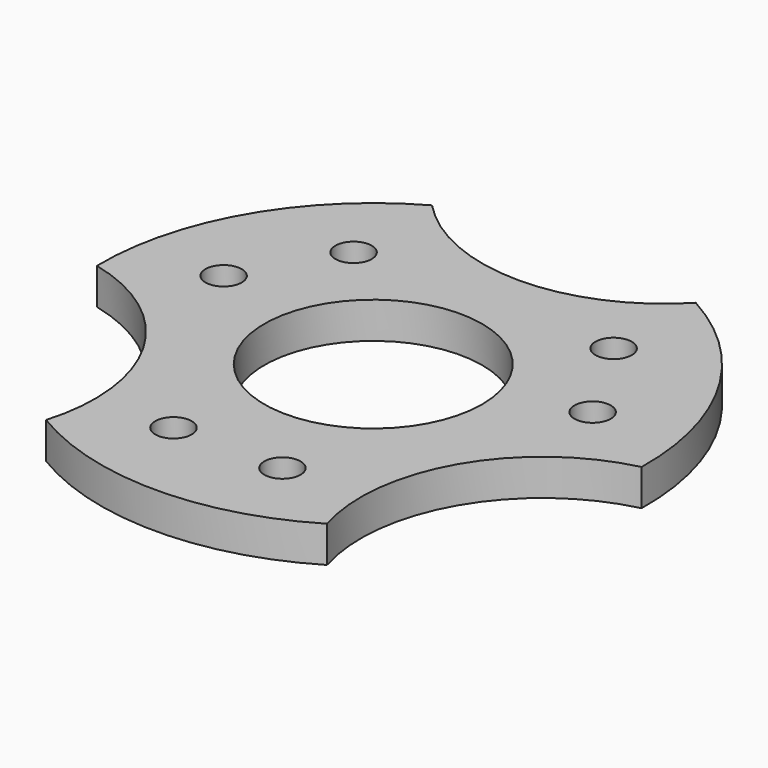
from build123d import *

# Parameters (mm, degrees)
F1_DEPTH = 5.08
F2_R     = 15.24
F3_DEPTH = 25.4
F2_R_2   = 2.54
F4_DEPTH = 25.4


with BuildPart() as f1:
    # F0 (on Top) → F1 (new body)
    with BuildSketch(Plane.XY):
        with BuildLine():
            ThreePointArc((18.445083, 33.3375), (0, 25.4), (-18.445083, 33.3375))
            ThreePointArc((-18.445083, 33.3375), (-32.995568, 19.05), (-38.093663, -0.694839))
            ThreePointArc((-38.093663, -0.694839), (-21.997045, -12.7), (-19.64858, -32.642661))
            ThreePointArc((-19.64858, -32.642661), (0, -38.1), (19.64858, -32.642661))
            ThreePointArc((19.64858, -32.642661), (21.997045, -12.7), (38.093663, -0.694839))
            ThreePointArc((38.093663, -0.694839), (32.995568, 19.05), (18.445083, 33.3375))
        make_face()
    extrude(amount=F1_DEPTH)

    # F2 (on face) → F3 (cut)
    with BuildSketch(Plane.XY.offset(5.08)):
        Circle(F2_R)
    extrude(amount=-F3_DEPTH, mode=Mode.SUBTRACT)

    # F2 (on face) → F4 (cut)
    with BuildSketch(Plane.XY.offset(5.08)):
        with Locations((7.62, -25.4)):
            Circle(F2_R_2)
        with Locations((-7.62, -25.4)):
            Circle(F2_R_2)
        with Locations((-25.807045, 6.100886)):
            Circle(F2_R_2)
        with Locations((-18.187045, 19.299114)):
            Circle(F2_R_2)
        with Locations((18.187045, 19.299114)):
            Circle(F2_R_2)
        with Locations((25.807045, 6.100886)):
            Circle(F2_R_2)
    extrude(amount=-F4_DEPTH, mode=Mode.SUBTRACT)


solid = f1.part
